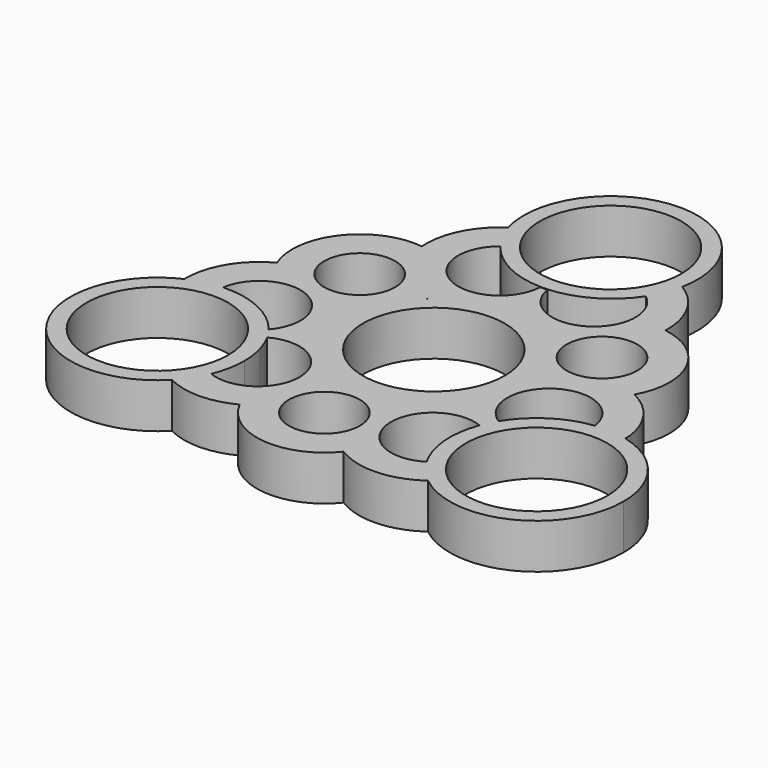
from build123d import *

# Parameters (mm, degrees)
F0_R     = 11.05
F0_R_2   = 5.524841
F0_R_3   = 5.521717
F1_DEPTH = 7


with BuildPart() as f1:
    # F0 (on Top) → F1 (new body)
    with BuildSketch(Plane.XY):
        with BuildLine():
            ThreePointArc((-30.27175, -3.219667), (-32.865041, -3.5851), (-35.339594, -4.442586))
            ThreePointArc((-35.339594, -4.442586), (-40.732584, -24.604776), (-19.918734, -26.148118))
            ThreePointArc((-19.918734, -26.148118), (-18.338716, -24.161725), (-17.156869, -21.915518))
            ThreePointArc((-17.156869, -21.915518), (-16.394062, -19.386242), (-16.136531, -16.757023))
            ThreePointArc((-16.136531, -16.757023), (-16.266635, -14.883817), (-16.65445, -13.046583))
            ThreePointArc((-16.65445, -13.046583), (-17.164663, -11.579637), (-17.839394, -10.180713))
            ThreePointArc((-17.839394, -10.180713), (-18.394537, -9.267472), (-19.019928, -8.400823))
            ThreePointArc((-19.019928, -8.400823), (-24.019109, -4.449187), (-30.27175, -3.219667))
        make_face()
        with Locations((-29.686531, -16.757023)):
            Circle(F0_R, mode=Mode.SUBTRACT)
        with BuildLine():
            ThreePointArc((-13.040381, 30.786681), (-12.067165, 28.448015), (-10.675671, 26.331354))
            ThreePointArc((-10.675671, 26.331354), (-6.029005, 22.482823), (-0.172342, 21.032925))
            ThreePointArc((-0.172342, 21.032925), (0.382199, 21.034199), (0.936224, 21.058163))
            ThreePointArc((0.936224, 21.058163), (6.867395, 22.856804), (11.377187, 27.108354))
            ThreePointArc((11.377187, 27.108354), (12.556434, 29.374864), (13.289258, 31.822448))
            ThreePointArc((13.289258, 31.822448), (-0.532624, 48.007374), (-13.040381, 30.786681))
        make_face()
        with Locations((0, 34.467846)):
            Circle(F0_R, mode=Mode.SUBTRACT)
        with BuildLine():
            ThreePointArc((0.952624, 20.951374), (0.388404, 20.923414), (-0.17649, 20.918996))
            ThreePointArc((-0.17649, 20.918996), (-9.648186, 15.43491), (-10.675671, 26.331354))
            ThreePointArc((-10.675671, 26.331354), (-12.067165, 28.448015), (-13.040381, 30.786681))
            ThreePointArc((-13.040381, 30.786681), (-17.005323, 26.255064), (-18.1368, 20.341006))
            ThreePointArc((-18.1368, 20.341006), (-27.800797, 16.327475), (-29.222287, 5.960189))
            ThreePointArc((-29.222287, 5.960189), (-33.762662, 1.630121), (-35.339594, -4.442586))
            ThreePointArc((-35.339594, -4.442586), (-32.865041, -3.5851), (-30.27175, -3.219667))
            ThreePointArc((-30.27175, -3.219667), (-21.194494, 1.684977), (-19.019928, -8.400823))
            ThreePointArc((-19.019928, -8.400823), (-18.394537, -9.267472), (-17.839394, -10.180713))
            ThreePointArc((-17.839394, -10.180713), (-8.23761, -15.509501), (-17.156869, -21.915518))
            ThreePointArc((-17.156869, -21.915518), (-18.338716, -24.161725), (-19.918734, -26.148118))
            ThreePointArc((-19.918734, -26.148118), (-14.644184, -27.386623), (-9.387936, -26.072605))
            ThreePointArc((-9.387936, -26.072605), (-1.069433, -31.784934), (8.232154, -27.872304))
            ThreePointArc((8.232154, -27.872304), (14.704134, -29.596756), (21.039259, -27.422716))
            ThreePointArc((21.039259, -27.422716), (19.240377, -25.683208), (17.792045, -23.642571))
            ThreePointArc((17.792045, -23.642571), (7.868212, -18.677143), (16.821859, -12.12198))
            ThreePointArc((16.821859, -12.12198), (17.329602, -10.93555), (17.947911, -9.802803))
            ThreePointArc((17.947911, -9.802803), (17.907438, 1.147655), (27.866747, -3.404964))
            ThreePointArc((27.866747, -3.404964), (30.35929, -3.329972), (32.823366, -3.71302))
            ThreePointArc((32.823366, -3.71302), (32.834455, -3.230002), (32.823366, -2.746983))
            ThreePointArc((32.823366, -2.746983), (30.747102, 2.4274), (26.48104, 6.017083))
            ThreePointArc((26.48104, 6.017083), (26.74913, 15.790636), (18.861073, 21.567552))
            ThreePointArc((18.861073, 21.567552), (17.472712, 27.454332), (13.289258, 31.822448))
            ThreePointArc((13.289258, 31.822448), (12.556434, 29.374864), (11.377187, 27.108354))
            ThreePointArc((11.377187, 27.108354), (10.674436, 16.394645), (0.952624, 20.951374))
        make_face()
        with Locations((0, -21.314567)):
            Circle(F0_R_2, mode=Mode.SUBTRACT)
        Circle(F0_R, mode=Mode.SUBTRACT)
        with Locations((-19.467567, 9.903785)):
            Circle(F0_R_3, mode=Mode.SUBTRACT)
        with BuildLine():
            ThreePointArc((-9.156847, 9.984555), (-9.053526, 10.078335), (-8.949245, 10.171047))
            ThreePointArc((-8.949245, 10.171047), (-8.946944, 10.055484), (-8.945912, 9.939903))
            ThreePointArc((-8.945912, 9.939903), (-9.051484, 9.961735), (-9.156847, 9.984555))
        make_face(mode=Mode.SUBTRACT)
        with Locations((17.297982, 11.159429)):
            Circle(F0_R_2, mode=Mode.SUBTRACT)
        with BuildLine():
            ThreePointArc((43.068773, -16.853878), (40.204739, -8.522454), (32.823366, -3.71302))
            ThreePointArc((32.823366, -3.71302), (30.35929, -3.329972), (27.866747, -3.404964))
            ThreePointArc((27.866747, -3.404964), (22.174096, -5.467122), (17.947911, -9.802803))
            ThreePointArc((17.947911, -9.802803), (17.329602, -10.93555), (16.821859, -12.12198))
            ThreePointArc((16.821859, -12.12198), (16.016566, -17.990943), (17.792045, -23.642571))
            ThreePointArc((17.792045, -23.642571), (19.240377, -25.683208), (21.039259, -27.422716))
            ThreePointArc((21.039259, -27.422716), (35.379877, -29.070669), (43.068773, -16.853878))
        make_face()
        with Locations((29.518773, -16.853878)):
            Circle(F0_R, mode=Mode.SUBTRACT)
    extrude(amount=F1_DEPTH)


solid = f1.part
